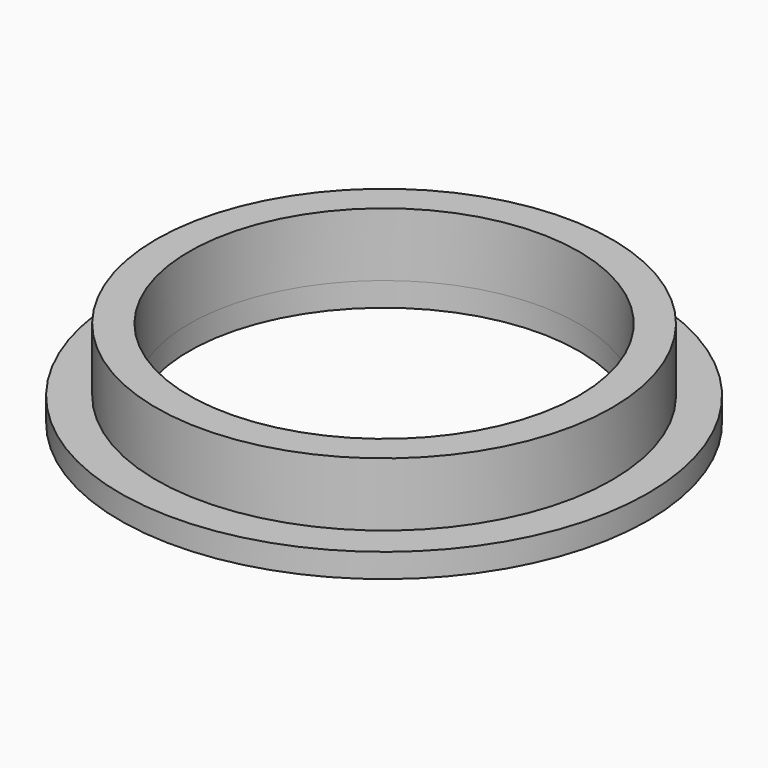
from build123d import *

# Parameters (mm, degrees)
F0_R     = 9.5
F0_R_2   = 8.125
F1_DEPTH = 2.65
F0_R_3   = 11
F2_DEPTH = 1


with BuildPart() as f1:
    # F0 (on Top) → F1 (new body)
    with BuildSketch(Plane.XY):
        Circle(F0_R)
        Circle(F0_R_2, mode=Mode.SUBTRACT)
    extrude(amount=F1_DEPTH)

    # F0 (on Top) → F2 (join)
    with BuildSketch(Plane.XY):
        Circle(F0_R_3)
        Circle(F0_R, mode=Mode.SUBTRACT)
        Circle(F0_R)
        Circle(F0_R_2, mode=Mode.SUBTRACT)
    extrude(amount=-F2_DEPTH)


solid = f1.part
